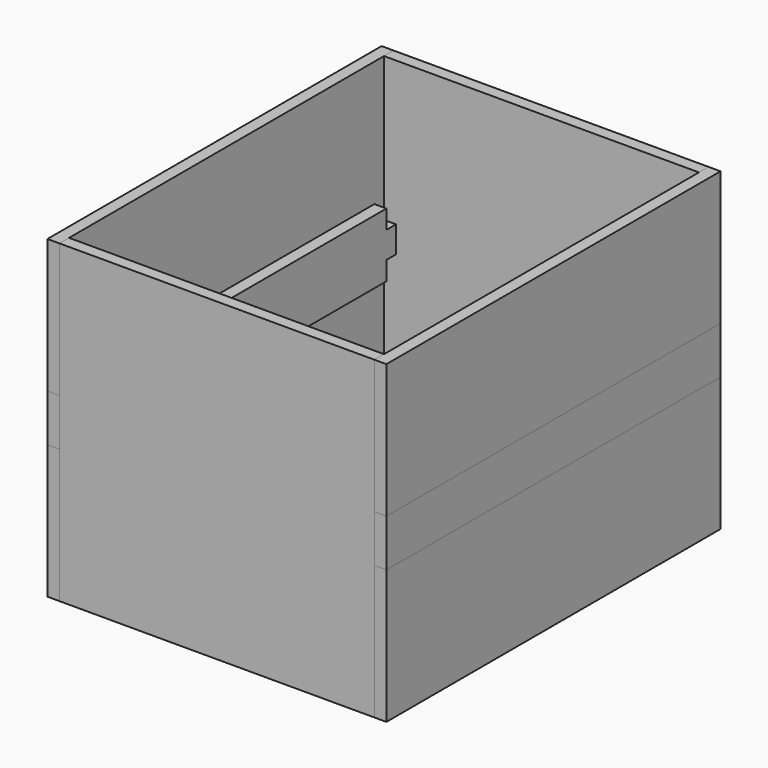
from build123d import *

# Parameters (mm, degrees)
F0_W      = 100
F0_H      = 125
F1_DEPTH  = 3.81
F2_W      = 100
F2_H      = 3.81
F3_DEPTH  = 100
F4_W      = 3.81
F4_H      = 132.62
F5_DEPTH  = 100
F6_W      = 132.62
F6_H      = 15
F7_DEPTH  = 3.81
F11_DEPTH = 3.81


with BuildPart() as f1:
    # F0 (on Top) → F1 (new body)
    with BuildSketch(Plane.XY):
        Rectangle(F0_W, F0_H)
    extrude(amount=F1_DEPTH)


with BuildPart() as f3:
    # F2 (on Top) → F3 (new body)
    with BuildSketch(Plane.XY):
        with Locations((0, 64.405)):
            Rectangle(F2_W, F2_H)
        with Locations((0, -64.405)):
            Rectangle(F2_W, F2_H)
    extrude(amount=F3_DEPTH)


with BuildPart() as f5:
    # F4 (on Top) → F5 (new body, through all)
    with BuildSketch(Plane.XY):
        with Locations((-51.905, 0)):
            Rectangle(F4_W, F4_H)
        with Locations((51.905, 0)):
            Rectangle(F4_W, F4_H)
    extrude(amount=F5_DEPTH)


with BuildPart() as f7:
    # F6 (on face) → F7 (new body, through all)
    with BuildSketch(Plane(origin=(-53.81, 0, 0), x_dir=(0, -1, 0), z_dir=(-1, 0, 0))):
        with Locations((0, 50)):
            Rectangle(F6_W, F6_H)
    extrude(amount=-F7_DEPTH)


with BuildPart() as f8_1:
    # F8: instance of F7
    add(f7.part.mirror(Plane.YZ))


with BuildPart() as f5_1:
    add(f5.part)

    # F9: cut F8_1, F7
    add(f8_1.part, mode=Mode.SUBTRACT)
    add(f7.part, mode=Mode.SUBTRACT)


with BuildPart() as f11:
    # F10 (on face) → F11 (new body)
    with BuildSketch(Plane.YZ.offset(-50)):
        Polygon((58.69, 54.204918), (58.69, 60.167585), (-58.69, 60.167585), (-58.69, 54.204918), (-62.5, 54.204918), (-62.5, 45.795082), (-58.69, 45.795082), (-58.69, 39.832415), (58.69, 39.832415), (58.69, 45.795082), (62.5, 45.795082), (62.5, 54.204918), align=None)
    extrude(amount=F11_DEPTH)


solid = Compound([f1.part, f3.part, f7.part, f8_1.part, f5_1.part, f11.part])
